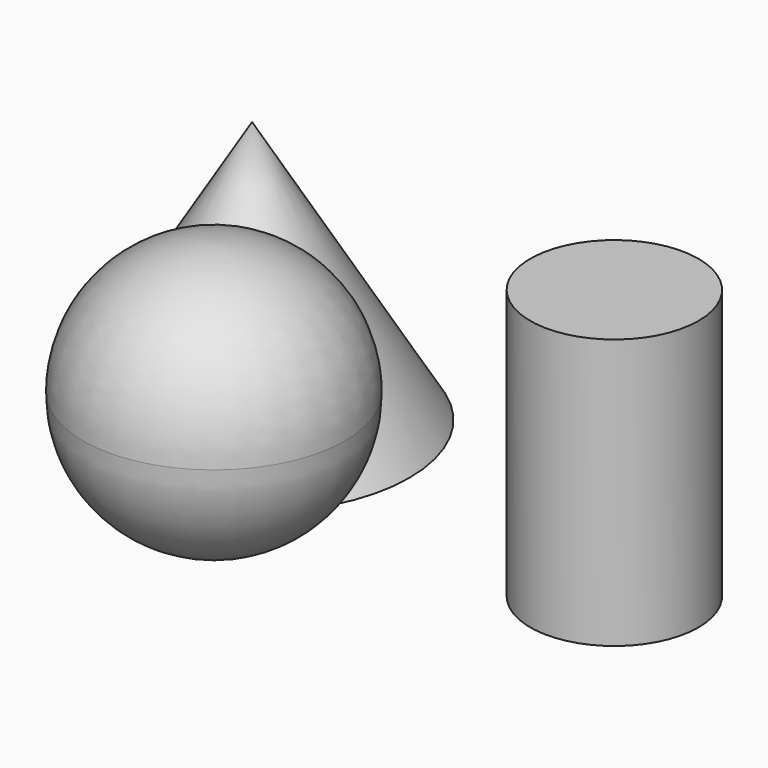
from build123d import *

# Parameters (mm, degrees)
F4_W = 40.751412
F4_H = 130.712126


with BuildPart() as f1:
    # F0 (on Front) → F1 (revolve)
    with BuildSketch(Plane.XZ):
        Polygon((-53.691887, -65.631457), (-53.691887, 61.368543), (-129.891887, -65.631457), align=None)
    revolve(axis=Axis((-53.691887, 0, -2.131457), (0, 0, -1)))

    # F2 (on Right) → F3 (revolve)
    with BuildSketch(Plane.YZ):
        with BuildLine():
            ThreePointArc((-26.716555, 0.148972), (-45.315274, 45.050253), (-90.216555, 63.648972))
            Line((-90.216555, 63.648972), (-90.216555, -63.351028))
            ThreePointArc((-90.216555, -63.351028), (-45.315274, -44.752308), (-26.716555, 0.148972))
        make_face()
    revolve(axis=Axis((0, -90.216555, 0.148972), (0, 0, -1)))


with BuildPart() as f5:
    # F4 (on Front) → F5 (revolve)
    with BuildSketch(Plane.XZ):
        with Locations((142.179109, -18.486349)):
            Rectangle(F4_W, F4_H)
    revolve(axis=Axis((121.803403, 0, -18.486349), (0, 0, -1)))


solid = Compound([f1.part, f5.part])
